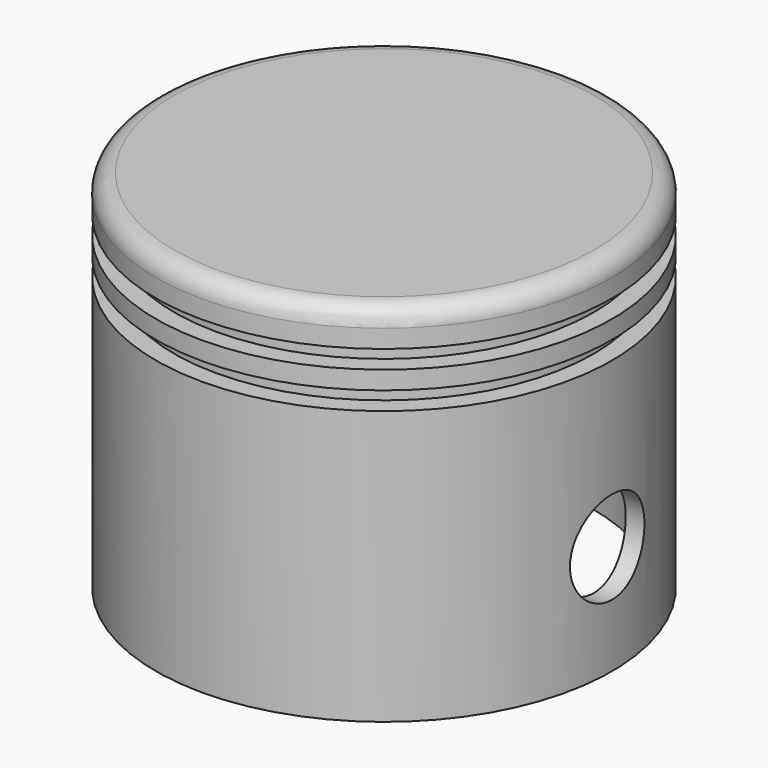
from build123d import *

# Parameters (mm, degrees)
F2_R = 2
F7_D = 10.2


with BuildPart() as f1:
    # F0 (on Right) → F1 (revolve)
    with BuildSketch(Plane.YZ):
        Polygon((25, 20), (0, 20), (0, 16), (0, -20), (25, -20), (25, 10), (23, 10), (23, 12), (25, 12), (25, 14), (23, 14), (23, 16), (25, 16), align=None)
    revolve(axis=Axis((0, 0, -4), (0, 0, -1)))

    # F2
    f2_edges = [f1.edges().sort_by_distance(p)[0] for p in [
        (0, -25, 20),
    ]]
    fillet(f2_edges, radius=F2_R)

    # F3 (on Right) → F4 (revolve, cut)
    with BuildSketch(Plane.YZ):
        with BuildLine():
            Line((0, 8), (0, -20))
            Line((0, -20), (23, -20))
            Line((23, -20), (23, 7))
            ThreePointArc((23, 7), (22.707107, 7.707107), (22, 8))
            Line((22, 8), (0, 8))
        make_face()
    revolve(axis=Axis((0, 0, -6), (0, 0, 1)), mode=Mode.SUBTRACT)

    # F7 (through all)
    with Locations(Plane.YZ.offset(25)):
        with Locations((0, -8)):
            Hole(F7_D / 2)


solid = f1.part
